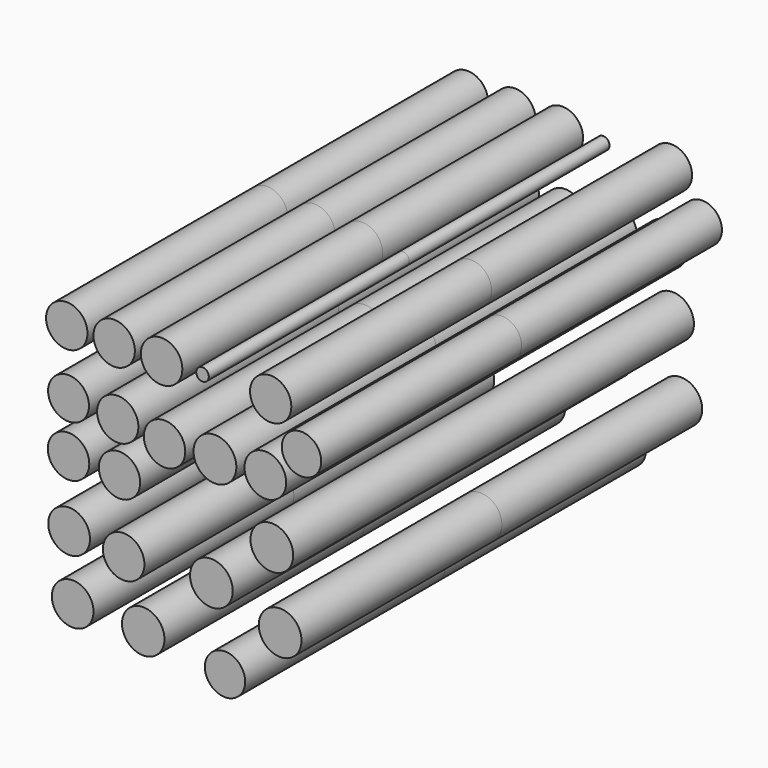
from build123d import *

# Parameters (mm, degrees)
F0_R     = 10.331712
F0_R_2   = 10.331711
F0_R_3   = 10.348635
F0_R_4   = 3.144351
F0_R_5   = 10.199604
F0_R_6   = 10.302027
F0_R_7   = 10.352858
F0_R_8   = 10.319001
F0_R_9   = 10.420253
F0_R_10  = 10.357086
F0_R_11  = 10.390826
F0_R_12  = 10.603369
F0_R_13  = 10.665078
F0_R_14  = 10.057064
F0_R_15  = 10.40345
F0_R_16  = 10.685566
F0_R_17  = 10.665075
F0_R_18  = 10.302026
F0_R_19  = 9.832711
F0_R_20  = 10.665077
F1_DEPTH = 124.968


with BuildPart() as f1:
    # F0 (on Front) → F1 (new body, symmetric)
    with BuildSketch(Plane.XZ):
        with Locations((-58.271822, 64.187743)):
            Circle(F0_R)
        with Locations((-34.608137, 64.187743)):
            Circle(F0_R_2)
        with Locations((-10.944454, 63.891947)):
            Circle(F0_R_3)
        with Locations((9.465474, 64.779334)):
            Circle(F0_R_4)
        with Locations((-57.384431, 32.537565)):
            Circle(F0_R_5)
        with Locations((-32.83336, 31.354383)):
            Circle(F0_R_6)
        with Locations((-9.465474, 28.100627)):
            Circle(F0_R_2)
        with Locations((-57.384431, 7.099107)):
            Circle(F0_R_7)
        with Locations((-31.945974, 7.099107)):
            Circle(F0_R_8)
        with Locations((-57.088636, -25.734253)):
            Circle(F0_R_9)
        with Locations((-29.875401, -28.100623)):
            Circle(F0_R_10)
        with Locations((-55.313863, -57.088632)):
            Circle(F0_R_11)
        with Locations((-20.114131, -57.680223)):
            Circle(F0_R_12)
        with Locations((13.902412, -25.438456)):
            Circle(F0_R_13)
        with Locations((20.705722, -63.300349)):
            Circle(F0_R_14)
        with Locations((40.81985, 30.762792)):
            Circle(F0_R_15)
        with Locations((15.677188, 29.579606)):
            Circle(F0_R_16)
        with Locations((48.214752, -36.087114)):
            Circle(F0_R_17)
        with Locations((43.482017, 65.075129)):
            Circle(F0_R_18)
        with Locations((58.863413, 45.848388)):
            Circle(F0_R_19)
        with Locations((44.073608, 0)):
            Circle(F0_R_20)
    extrude(amount=F1_DEPTH, both=True)


solid = f1.part
